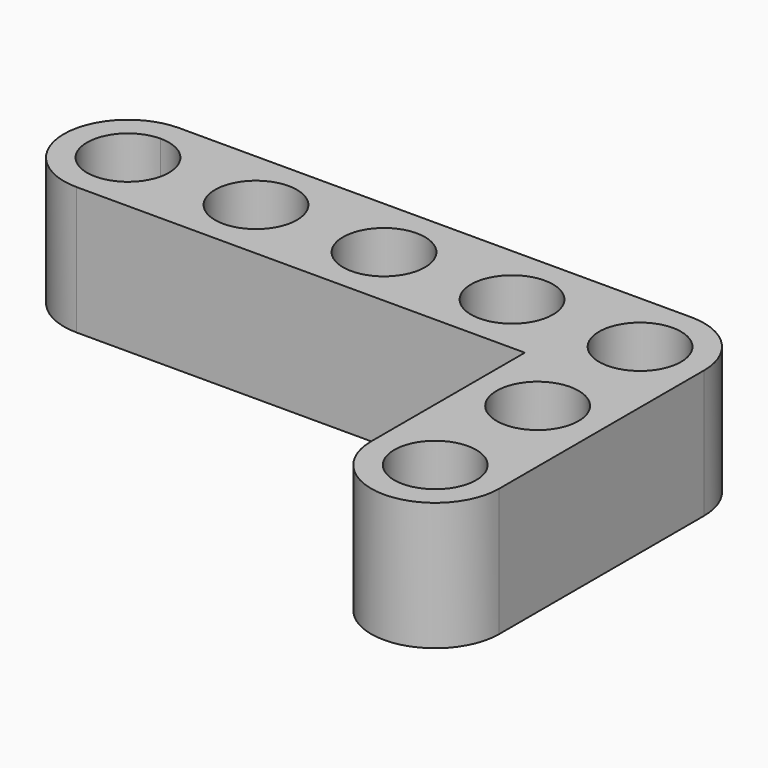
from build123d import *

# Parameters (mm, degrees)
F0_R     = 2.54
F1_DEPTH = 7.9375


with BuildPart() as f1:
    # F0 (on Top) → F1 (new body)
    with BuildSketch(Plane.XY):
        with BuildLine():
            Line((31.75, 0), (0, 0))
            Line((0, 0), (0, -1.42875))
            ThreePointArc((0, -1.42875), (1.796051, -2.172699), (2.54, -3.96875))
            ThreePointArc((2.54, -3.96875), (1.796051, -5.764801), (0, -6.50875))
            Line((0, -6.50875), (0, -7.9375))
            Line((0, -7.9375), (27.78125, -7.9375))
            Line((27.78125, -7.9375), (27.78125, -19.84375))
            ThreePointArc((27.78125, -19.84375), (31.75, -23.8125), (35.71875, -19.84375))
            Line((35.71875, -19.84375), (35.71875, -3.96875))
            ThreePointArc((35.71875, -3.96875), (34.55633, -1.16242), (31.75, 0))
        make_face()
        with Locations((31.75, -19.84375)):
            Circle(F0_R, mode=Mode.SUBTRACT)
        with Locations((7.9375, -3.96875)):
            Circle(F0_R, mode=Mode.SUBTRACT)
        with Locations((31.75, -11.90625)):
            Circle(F0_R, mode=Mode.SUBTRACT)
        with Locations((15.875, -3.96875)):
            Circle(F0_R, mode=Mode.SUBTRACT)
        with Locations((23.8125, -3.96875)):
            Circle(F0_R, mode=Mode.SUBTRACT)
        with Locations((31.75, -3.96875)):
            Circle(F0_R, mode=Mode.SUBTRACT)
        with BuildLine():
            Line((0, -1.42875), (0, 0))
            ThreePointArc((0, 0), (-3.96875, -3.96875), (0, -7.9375))
            Line((0, -7.9375), (0, -6.50875))
            ThreePointArc((0, -6.50875), (-2.54, -3.96875), (0, -1.42875))
        make_face()
    extrude(amount=F1_DEPTH)


solid = f1.part
